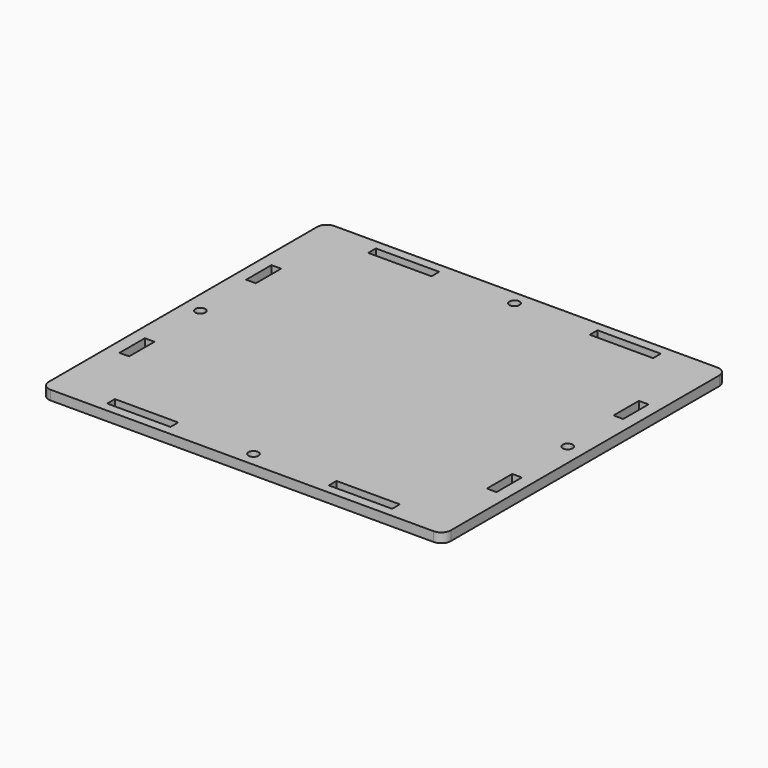
from build123d import *

# Parameters (mm, degrees)
F0_W     = 127
F0_H     = 112
F1_DEPTH = 3
F2_W     = 3.05
F2_H     = 10
F2_R     = 1.575
F2_W_2   = 20
F2_H_2   = 3.05
F3_DEPTH = 3
F4_R     = 3


with BuildPart() as f1:
    # F0 (on Top) → F1 (new body)
    with BuildSketch(Plane.XY):
        Rectangle(F0_W, F0_H)
    extrude(amount=F1_DEPTH)

    # F2 (on face) → F3 (cut, through all)
    with BuildSketch(Plane.XY.offset(3)):
        with Locations((-58.025, 25)):
            Rectangle(F2_W, F2_H)
        with Locations((-58.025, -25)):
            Rectangle(F2_W, F2_H)
        with Locations((-58.025, 0)):
            Circle(F2_R)
        with Locations((58.025, -25)):
            Rectangle(F2_W, F2_H)
        with Locations((58.025, 25)):
            Rectangle(F2_W, F2_H)
        with Locations((58.025, 0)):
            Circle(F2_R)
        with Locations((-35, -51.525)):
            Rectangle(F2_W_2, F2_H_2)
        with Locations((35, -51.525)):
            Rectangle(F2_W_2, F2_H_2)
        with Locations((0, -51.525)):
            Circle(F2_R)
        with Locations((-35, 51.525)):
            Rectangle(F2_W_2, F2_H_2)
        with Locations((35, 51.525)):
            Rectangle(F2_W_2, F2_H_2)
        with Locations((0, 51.525)):
            Circle(F2_R)
    extrude(amount=-F3_DEPTH, mode=Mode.SUBTRACT)

    # F4
    f4_edges = [f1.edges().sort_by_distance(p)[0] for p in [
        (63.5, -56, 1.5),
        (-63.5, -56, 1.5),
        (-63.5, 56, 1.5),
        (63.5, 56, 1.5),
    ]]
    fillet(f4_edges, radius=F4_R)


solid = f1.part
